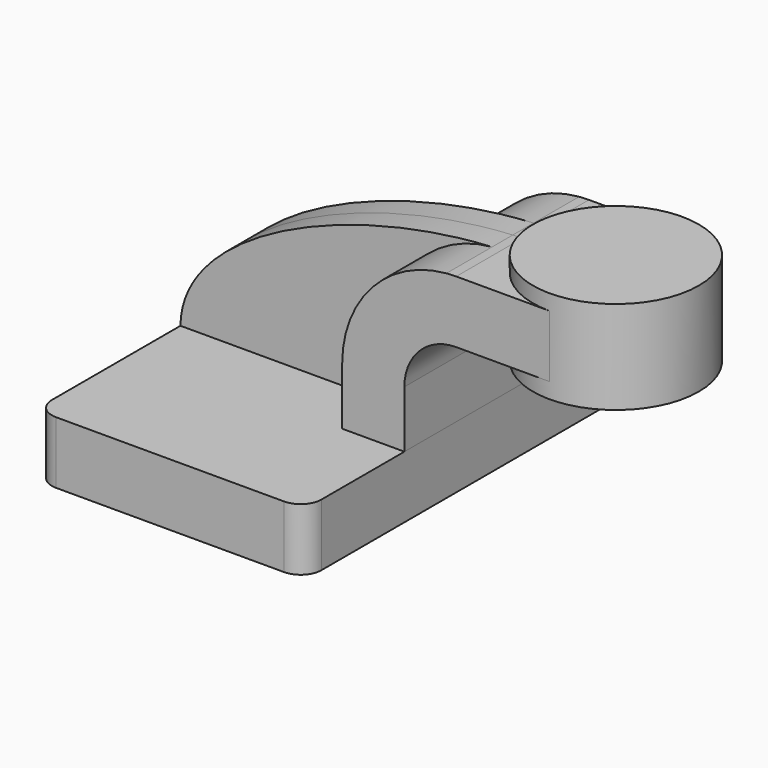
from build123d import *

# Parameters (mm, degrees)
F1_DEPTH = 63.5
F0_W     = 25.4
F0_H     = 19.05
F2_DEPTH = 25.4
F3_DEPTH = 7.9375
F5_R     = 6.35


with BuildPart() as f1:
    # F0 (on Front) → F1 (new body, symmetric)
    with BuildSketch(Plane.XZ):
        Polygon((-41.275, 9.525), (-41.275, -9.525), (41.275, -9.525), (41.275, 9.525), (22.225, 9.525), align=None)
    extrude(amount=F1_DEPTH, both=True)

    # F5
    f5_edges = [f1.edges().sort_by_distance(p)[0] for p in [
        (41.275, -63.5, 0),
        (41.275, 63.5, 0),
        (-41.275, 63.5, 0),
        (-41.275, -63.5, 0),
    ]]
    fillet(f5_edges, radius=F5_R)


with BuildPart() as f2:
    # F0 (on Front) → F2 (new body, symmetric)
    with BuildSketch(Plane.XZ):
        with BuildLine():
            Line((22.225, 9.525), (41.275, 9.525))
            Line((41.275, 9.525), (41.275, 27.0002))
            ThreePointArc((41.275, 27.0002), (45.9246798487, 38.2255201513), (57.15, 42.8752))
            Line((57.15, 42.8752), (60.325, 42.8752))
            Line((60.325, 42.8752), (60.325, 61.9252))
            Line((60.325, 61.9252), (57.15, 61.9252))
            add(Edge.make_bspline(
                [(54.1534553812, 61.7964116522), (55.1562490724, 61.8496292221), (56.1553262898, 61.8926131979), (57.15, 61.9252)],
                knots=[109.019265186, 109.019265186, 109.019265186, 109.019265186, 111.5045361635, 111.5045361635, 111.5045361635, 111.5045361635], degree=3))
            ThreePointArc((54.1534553812, 61.7964116522), (31.4166563986, 50.6127104996), (22.225, 27.0002))
            Line((22.225, 27.0002), (22.225, 9.525))
        make_face()
        with Locations((73.025, 52.4002)):
            Rectangle(F0_W, F0_H)
    extrude(amount=F2_DEPTH, both=True)

    # F0 (on Front) → F4 (revolve)
    with BuildSketch(Plane.XZ):
        Polygon((85.725, 66.675), (85.725, 61.9252), (85.725, 42.8752), (85.725, 38.1), (111.125, 38.1), (111.125, 66.675), align=None)
    revolve(axis=Axis((85.725, 0, 52.3875), (0, 0, 1)))


with BuildPart() as f3:
    # F0 (on Front) → F3 (new body, symmetric)
    with BuildSketch(Plane.XZ):
        with BuildLine():
            add(Edge.make_bspline(
                [(-41.275, 9.525), (-40.9753215909, 37.4356315417), (10.1647586431, 59.4619618421), (54.1534553812, 61.7964116522)],
                knots=[0, 0, 0, 0, 109.019265186, 109.019265186, 109.019265186, 109.019265186], degree=3))
            Line((-41.275, 9.525), (22.225, 9.525))
            Line((22.225, 9.525), (22.225, 27.0002))
            ThreePointArc((22.225, 27.0002), (31.4166563986, 50.6127104996), (54.1534553812, 61.7964116522))
        make_face()
    extrude(amount=F3_DEPTH, both=True)


solid = Compound([f1.part, f2.part, f3.part])
